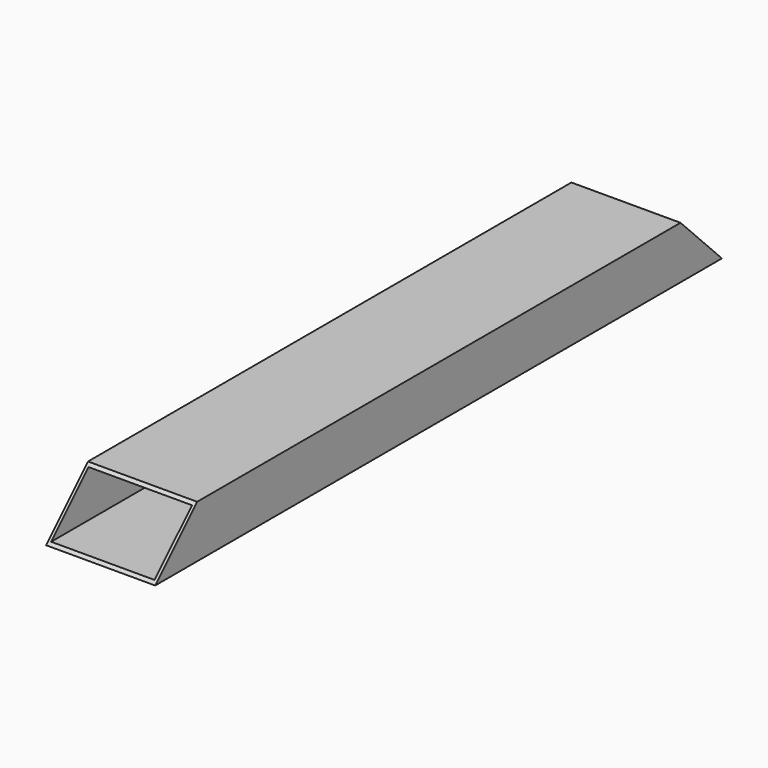
from build123d import *

# Parameters (mm, degrees)
F0_W     = 77
F0_H     = 37
F0_W_2   = 73
F0_H_2   = 33
F1_DEPTH = 500
F3_DEPTH = 128.275266
F5_DEPTH = 87.845365


with BuildPart() as f1:
    # F0 (on Front) → F1 (new body)
    with BuildSketch(Plane.XZ):
        with Locations((38.5, -18.5)):
            Rectangle(F0_W, F0_H)
        with Locations((38.5, -18.5)):
            Rectangle(F0_W_2, F0_H_2, mode=Mode.SUBTRACT)
    extrude(amount=F1_DEPTH)

    # F2 (on face) → F3 (cut)
    with BuildSketch(Plane(origin=(0, 0, 0), x_dir=(0, -1, 0), z_dir=(-1, 0, 0))):
        Polygon((36.537793, 0), (0, 0), (0, -37), align=None)
    extrude(amount=-F3_DEPTH, mode=Mode.SUBTRACT)

    # F4 (on face) → F5 (cut)
    with BuildSketch(Plane.YZ.offset(77)):
        Polygon((-463, 0), (-500, 0), (-500, -37), align=None)
    extrude(amount=-F5_DEPTH, mode=Mode.SUBTRACT)


solid = f1.part
